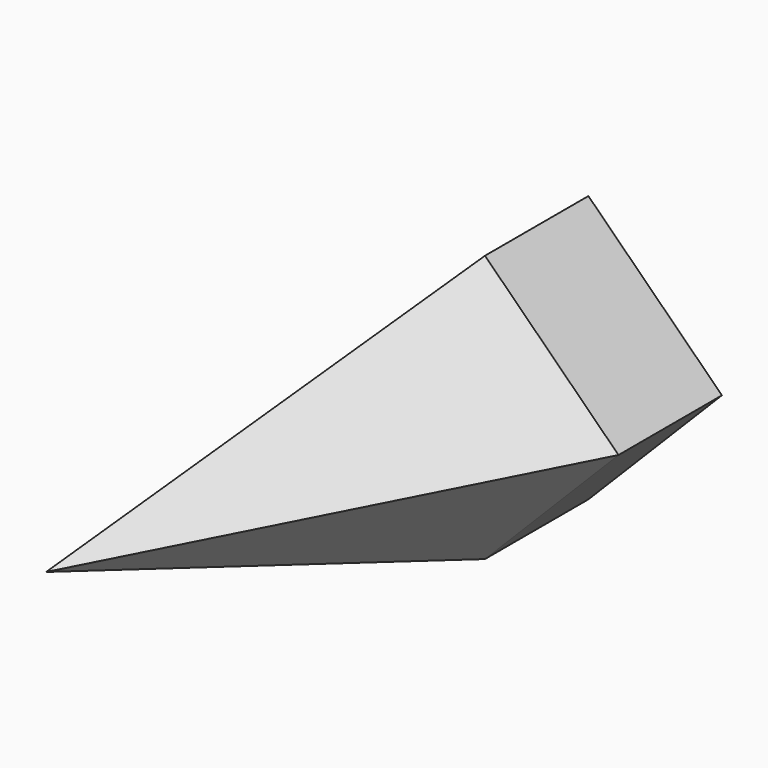
from build123d import *

# Parameters (mm, degrees)
F1_DEPTH = 25.4


with BuildPart() as f1:
    # F0 (on Front) → F1 (new body)
    with BuildSketch(Plane.XZ):
        Polygon((-12.533442, 39.786395), (-38.76623, 9.764424), (-47.510494, -23.172295), (-12.533442, -12.682451), (13.699343, 13.845082), align=None)
        Polygon((-12.533442, 39.786395), (-38.76623, 9.764424), (-47.510494, -23.172295), (-12.533442, -12.682451), (13.699343, 13.845082), align=None)
    extrude(amount=F1_DEPTH)

    # F1_face (on face) → F4 section 0
    with BuildSketch(Plane(origin=(-18.206937, -25.4, 6.944855), x_dir=(1, 0, 0), z_dir=(0, -1, 0)), mode=Mode.PRIVATE) as f4_s0:
        Polygon((5.673495, -19.627306), (31.90628, 6.900227), (5.673495, 32.84154), (-20.559293, 2.819569), (-29.303557, -30.11715), align=None)
    loft([f4_s0.sketch, Vertex(-39.081007, -100, 6.77496)])


solid = f1.part
